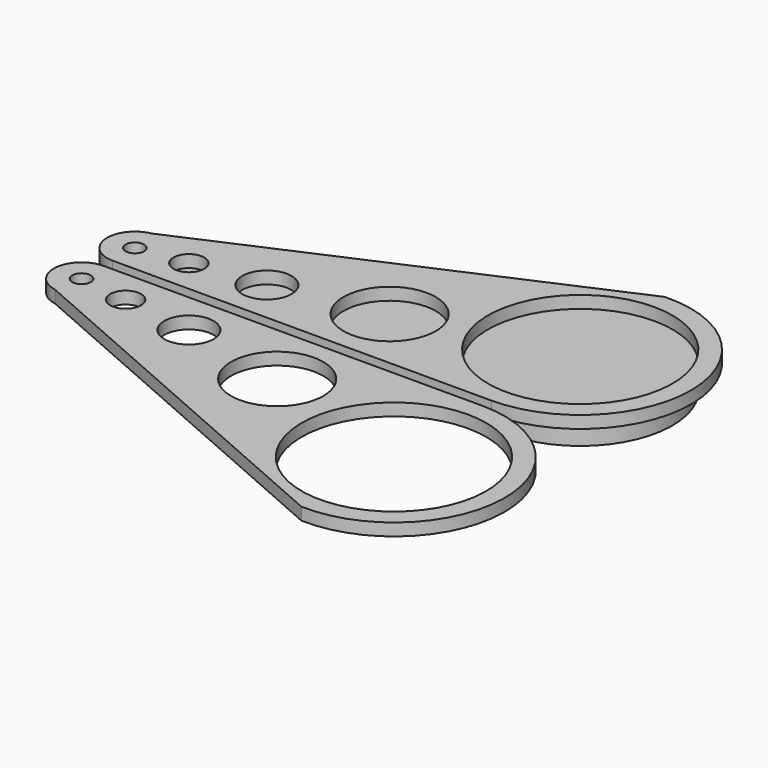
from build123d import *

# Parameters (mm, degrees)
F0_R     = 2.5
F0_R_2   = 7.5
F0_R_3   = 4
F1_DEPTH = 2
F2_DEPTH = 4


with BuildPart() as f1:
    # F0 (on Top) → F1 (new body)
    with BuildSketch(Plane.XY):
        with BuildLine():
            ThreePointArc((-10.302346, -0.919454), (-14.784971, -5.02439), (-11.089423, -9.850087))
            Line((-11.089423, -9.850087), (50.60965, -36.907489))
            ThreePointArc((50.60965, -36.907489), (69.262841, -19.247599), (51.265832, -0.919454))
            Line((51.265832, -0.919454), (-10.302346, -0.919454))
        make_face()
        with BuildLine():
            ThreePointArc((-10.302346, -3.919454), (-8.802346, -5.419454), (-10.302346, -6.919454))
            ThreePointArc((-10.302346, -6.919454), (-11.802346, -5.419454), (-10.302346, -3.919454))
        make_face(mode=Mode.SUBTRACT)
        with Locations((-2.331417, -6.419454)):
            Circle(F0_R, mode=Mode.SUBTRACT)
        with Locations((26.290541, -11.419454)):
            Circle(F0_R_2, mode=Mode.SUBTRACT)
        with Locations((9.14936, -7.919454)):
            Circle(F0_R_3, mode=Mode.SUBTRACT)
        with BuildLine():
            ThreePointArc((51.265832, -33.919454), (36.265832, -18.919454), (51.265832, -3.919454))
            ThreePointArc((51.265832, -3.919454), (66.265832, -18.919454), (51.265832, -33.919454))
        make_face(mode=Mode.SUBTRACT)
        with BuildLine():
            Line((-10.302346, 0.919454), (51.265832, 0.919454))
            ThreePointArc((51.265832, 0.919454), (69.262841, 19.247599), (50.60965, 36.907489))
            Line((50.60965, 36.907489), (-11.089423, 9.850087))
            ThreePointArc((-11.089423, 9.850087), (-14.784971, 5.02439), (-10.302346, 0.919454))
        make_face()
        with BuildLine():
            ThreePointArc((-10.302346, 6.919454), (-8.802346, 5.419454), (-10.302346, 3.919454))
            ThreePointArc((-10.302346, 3.919454), (-11.802346, 5.419454), (-10.302346, 6.919454))
        make_face(mode=Mode.SUBTRACT)
        with Locations((-2.331417, 6.419454)):
            Circle(F0_R, mode=Mode.SUBTRACT)
        with Locations((9.14936, 7.919454)):
            Circle(F0_R_3, mode=Mode.SUBTRACT)
        with Locations((26.290541, 11.419454)):
            Circle(F0_R_2, mode=Mode.SUBTRACT)
        with BuildLine():
            ThreePointArc((51.265832, 3.919454), (36.265832, 18.919454), (51.265832, 33.919454))
            ThreePointArc((51.265832, 33.919454), (66.265832, 18.919454), (51.265832, 3.919454))
        make_face(mode=Mode.SUBTRACT)
    extrude(amount=F1_DEPTH)


with BuildPart() as f2:
    # F0 (on Top) → F2 (new body)
    with BuildSketch(Plane.XY):
        with BuildLine():
            ThreePointArc((51.265832, 3.919454), (66.265832, 18.919454), (51.265832, 33.919454))
            ThreePointArc((51.265832, 33.919454), (36.265832, 18.919454), (51.265832, 3.919454))
        make_face()
        with Locations((26.290541, 11.419454)):
            Circle(F0_R_2)
        with Locations((9.14936, 7.919454)):
            Circle(F0_R_3)
        with Locations((-2.331417, 6.419454)):
            Circle(F0_R)
        with BuildLine():
            ThreePointArc((-10.302346, 6.919454), (-11.802346, 5.419454), (-10.302346, 3.919454))
            ThreePointArc((-10.302346, 3.919454), (-8.802346, 5.419454), (-10.302346, 6.919454))
        make_face()
    extrude(amount=-F2_DEPTH)


solid = Compound([f1.part, f2.part])
